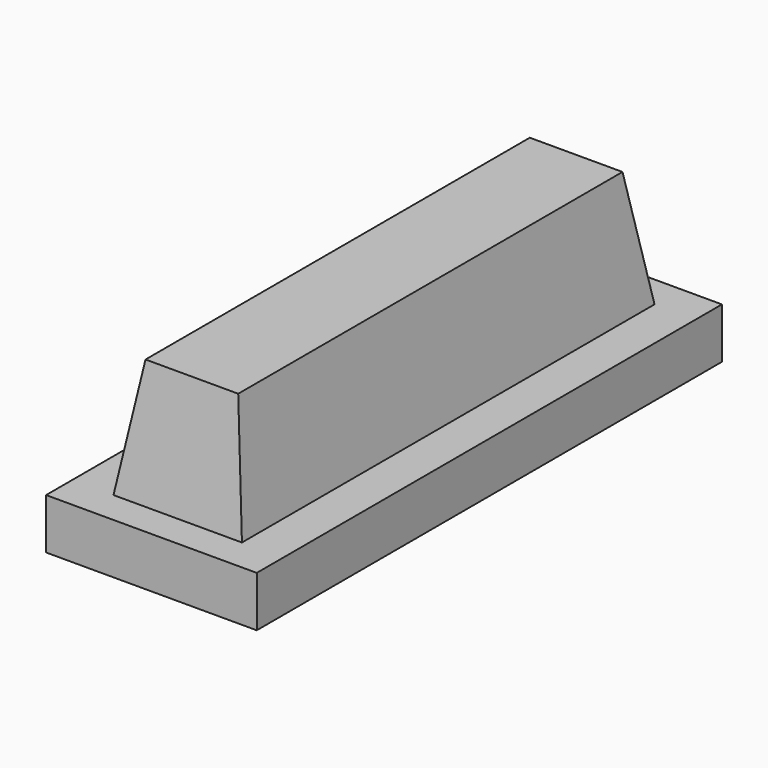
from build123d import *

# Parameters (mm, degrees)
F0_W     = 8.53
F0_H     = 31.5
F2_W     = 5.5
F2_H     = 28.5
F4_W     = 12.5
F4_H     = 34.5
F5_DEPTH = 3


with BuildPart() as f3:
    # F0 (on Top) → F3 section 0
    with BuildSketch(Plane.XY):
        Rectangle(F0_W, F0_H)
    # F2 (on offset) → F3 section 1
    with BuildSketch(Plane.XY.offset(10)):
        Rectangle(F2_W, F2_H)
    loft()

    # F4 (on Top) → F5 (join)
    with BuildSketch(Plane.XY):
        Rectangle(F4_W, F4_H)
    extrude(amount=F5_DEPTH)


solid = f3.part
